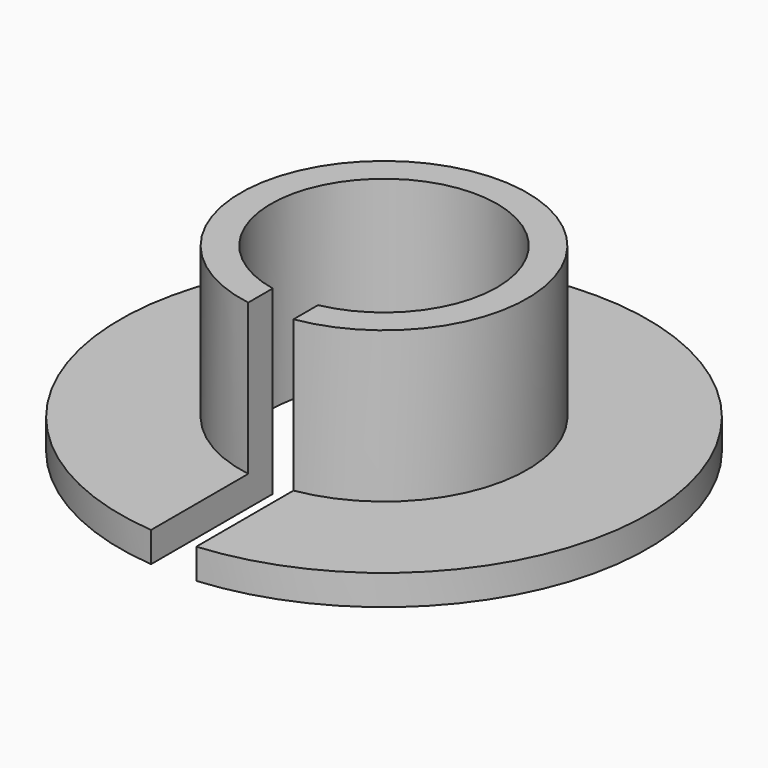
from build123d import *

# Parameters (mm, degrees)
F0_R     = 17.5
F0_R_2   = 7.5
F1_DEPTH = 2
F2_R     = 9.5
F2_R_2   = 7.5
F3_DEPTH = 10
F4_W     = 3
F4_H     = 10.151531
F5_DEPTH = 12.001


with BuildPart() as f1:
    # F0 (on Top) → F1 (new body)
    with BuildSketch(Plane.XY):
        Circle(F0_R)
        Circle(F0_R_2, mode=Mode.SUBTRACT)
    extrude(amount=F1_DEPTH)

    # F2 (on face) → F3 (join)
    with BuildSketch(Plane.XY.offset(2)):
        Circle(F2_R)
        Circle(F2_R_2, mode=Mode.SUBTRACT)
    extrude(amount=F3_DEPTH)

    # F4 (on Top) → F5 (cut, through all)
    with BuildSketch(Plane.XY):
        with Locations((0, -12.424235)):
            Rectangle(F4_W, F4_H)
    extrude(amount=F5_DEPTH, mode=Mode.SUBTRACT)


solid = f1.part
